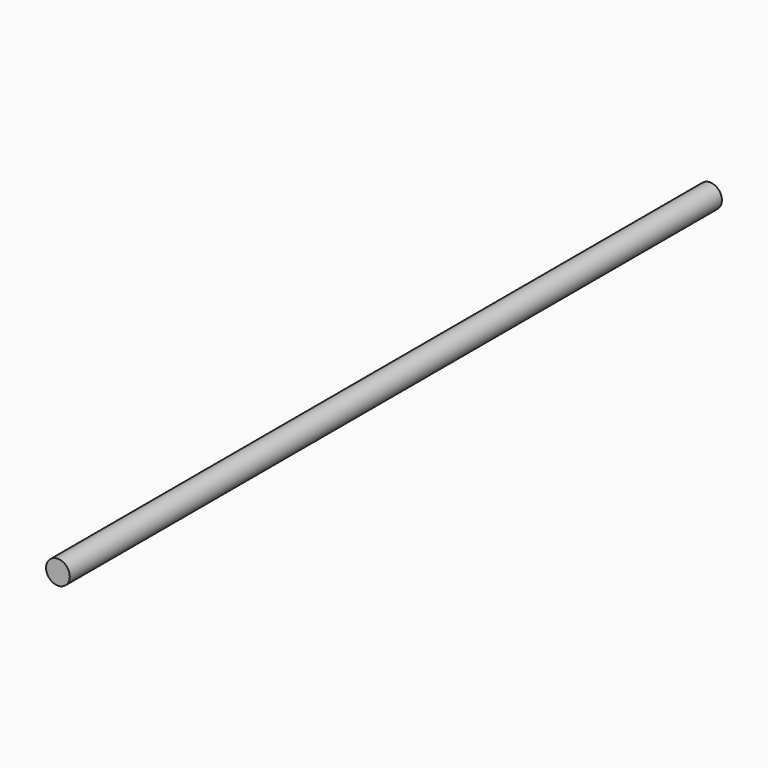
from build123d import *

# Parameters (mm, degrees)
F0_R     = 4
F1_DEPTH = 400
F2_DEPTH = 100
F3_DEPTH = 25


with BuildPart() as f1:
    # F0 (on Front) → F1 (new body)
    with BuildSketch(Plane.XZ):
        Circle(F0_R)
    extrude(amount=F1_DEPTH)

    # F2 (cut): a face of the model
    f2_faces = [f1.faces().sort_by_distance(p)[0] for p in [
        (0, -400, 0),
    ]]
    extrude(f2_faces, amount=-F2_DEPTH, mode=Mode.SUBTRACT)

    # F3 (cut): a face of the model
    f3_faces = [f1.faces().sort_by_distance(p)[0] for p in [
        (0, -300, 0),
    ]]
    extrude(f3_faces, amount=-F3_DEPTH, mode=Mode.SUBTRACT)


solid = f1.part
